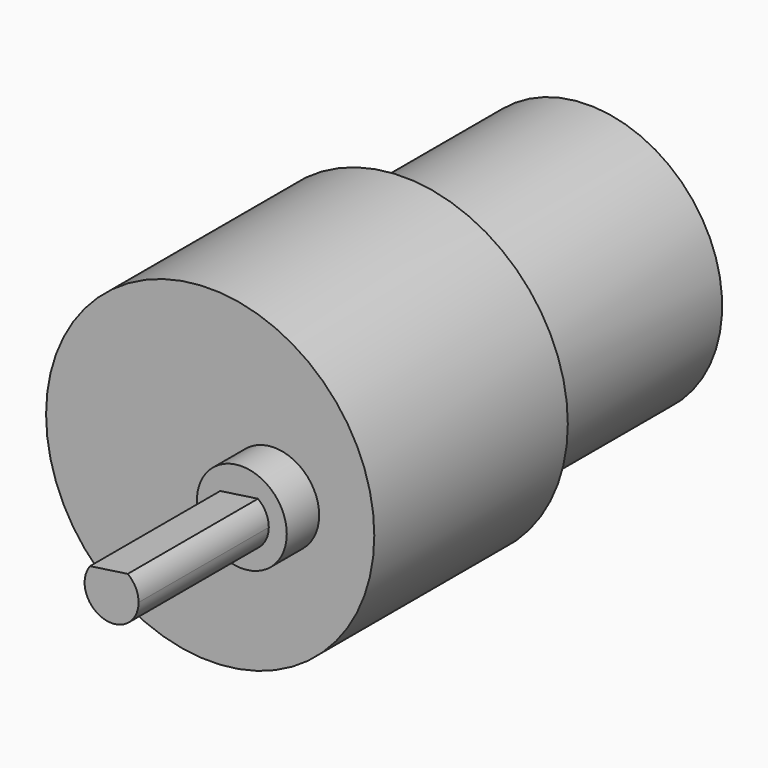
from build123d import *

# Parameters (mm, degrees)
F0_R     = 18.25
F1_DEPTH = 26.9
F4_DEPTH = 4.5
F6_DEPTH = 18.1
F7_R     = 14.854724
F8_DEPTH = 25.7


with BuildPart() as f1:
    # F0 (on Front) → F1 (new body)
    with BuildSketch(Plane.XZ):
        Circle(F0_R)
    extrude(amount=F1_DEPTH)

    # F3 (on face) → F4 (join)
    with BuildSketch(Plane.XZ.offset(26.9)):
        with BuildLine():
            ThreePointArc((10.116222, 0), (7.116222, 3), (4.116222, 0))
            Line((4.116222, 0), (10.116222, 0))
        make_face()
        with BuildLine():
            Line((10.116222, 0), (4.116222, 0))
            ThreePointArc((4.116222, 0), (7.116222, -3), (10.116222, 0))
        make_face()
        with BuildLine():
            Line((4.116222, 0), (2.116222, 0))
            ThreePointArc((2.116222, 0), (7.116222, -5), (12.116222, 0))
            Line((12.116222, 0), (10.116222, 0))
            ThreePointArc((10.116222, 0), (7.116222, -3), (4.116222, 0))
        make_face()
        with BuildLine():
            ThreePointArc((12.116222, 0), (7.116222, 5), (2.116222, 0))
            Line((2.116222, 0), (4.116222, 0))
            ThreePointArc((4.116222, 0), (7.116222, 3), (10.116222, 0))
            Line((10.116222, 0), (12.116222, 0))
        make_face()
    extrude(amount=F4_DEPTH)

    # F5 (on face) → F6 (join)
    with BuildSketch(Plane.XZ.offset(31.4)):
        Polygon((7.116222, 0), (8.912379, 2.402878), (4.713345, 1.796157), align=None)
        with BuildLine():
            ThreePointArc((4.713345, 1.796157), (6.169817, -2.846808), (10.116222, 0))
            ThreePointArc((10.116222, 0), (9.798429, 1.343788), (8.912379, 2.402878))
            Line((8.912379, 2.402878), (7.116222, 0))
            Line((7.116222, 0), (4.713345, 1.796157))
        make_face()
    extrude(amount=F6_DEPTH)

    # F7 (on face) → F8 (join)
    with BuildSketch(Plane(origin=(0, 0, 0), x_dir=(-1, 0, 0), z_dir=(0, 1, 0))):
        Circle(F7_R)
    extrude(amount=F8_DEPTH)


solid = f1.part
